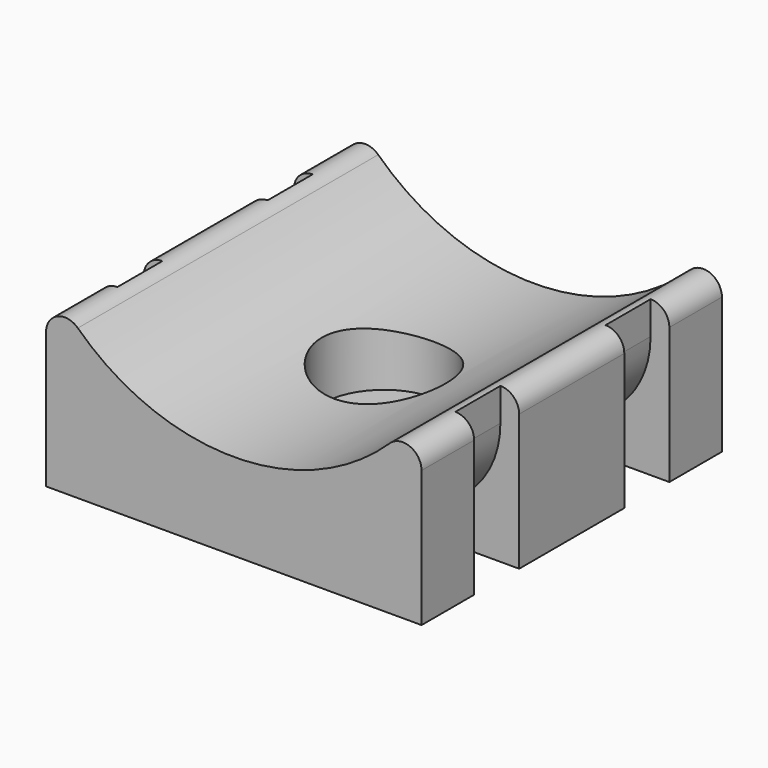
from build123d import *

# Parameters (mm, degrees)
SKETCH_W        = 20
SKETCH_H        = 20
PAD_DEPTH       = 10
SKETCH001_R     = 1.7
POCKET_DEPTH    = 10.001
SKETCH002_R     = 3.3
POCKET001_DEPTH = 8
POCKET002_DEPTH = 20.001
FILLET_R        = 1
SKETCH004_W     = 20
SKETCH004_H     = 3
POCKET003_DEPTH = 1.5
SKETCH005_W     = 3
SKETCH005_H     = 8
POCKET004_DEPTH = 1
SKETCH006_W     = 3
SKETCH006_H     = 8
POCKET005_DEPTH = 1
FILLET001_R     = 5


with BuildPart() as part:
    # Sketch → Pad (new body)
    with BuildSketch(Plane.XY):
        Rectangle(SKETCH_W, SKETCH_H)
    extrude(amount=PAD_DEPTH)

    # Sketch001 → Pocket (cut, through all)
    with BuildSketch(Plane.XY.offset(10)):
        Circle(SKETCH001_R)
    extrude(amount=-POCKET_DEPTH, mode=Mode.SUBTRACT)

    # Sketch002 → Pocket001 (cut)
    with BuildSketch(Plane.XY.offset(10)):
        Circle(SKETCH002_R)
    extrude(amount=-POCKET001_DEPTH, mode=Mode.SUBTRACT)

    # Sketch003 → Pocket002 (cut, through all)
    with BuildSketch(Plane(origin=(0, 10, 0), x_dir=(-1, 0, 0), z_dir=(0, 1, 0))):
        with BuildLine():
            ThreePointArc((-10, 10), (0, 4.63325), (10, 10))
            Line((-10, 10), (10, 10))
        make_face()
    extrude(amount=-POCKET002_DEPTH, mode=Mode.SUBTRACT)

    # Fillet
    fillet_edges = [part.edges().sort_by_distance(p)[0] for p in [
        (-10, 0, 10),
        (10, 0, 10),
    ]]
    fillet(fillet_edges, radius=FILLET_R)

    # Sketch004 → Pocket003 (cut)
    with BuildSketch(Plane(origin=(0, 0, 0), x_dir=(1, 0, 0), z_dir=(0, 0, -1))):
        with Locations((0, 5)):
            Rectangle(SKETCH004_W, SKETCH004_H)
    pocket003 = extrude(amount=-POCKET003_DEPTH, mode=Mode.SUBTRACT)

    # Mirrored: Pocket003 across Sketch004 H_Axis
    add(pocket003.mirror(Plane(origin=(0, 0, 0), x_dir=(0, 0, -1), z_dir=(0, -1, 0))), mode=Mode.SUBTRACT)

    # Sketch005 → Pocket004 (cut)
    with BuildSketch(Plane(origin=(-10, 0, 0), x_dir=(0, -1, 0), z_dir=(-1, 0, 0))):
        with Locations((-5, 5.5)):
            Rectangle(SKETCH005_W, SKETCH005_H)
    pocket004 = extrude(amount=-POCKET004_DEPTH, mode=Mode.SUBTRACT)

    # Mirrored001: Pocket004 across Sketch005 V_Axis
    add(pocket004.mirror(Plane(origin=(-10, 0, 0), x_dir=(-1, 0, 0), z_dir=(0, -1, 0))), mode=Mode.SUBTRACT)

    # Sketch006 → Pocket005 (cut)
    with BuildSketch(Plane.YZ.offset(10)):
        with Locations((-5, 5.5)):
            Rectangle(SKETCH006_W, SKETCH006_H)
    pocket005 = extrude(amount=-POCKET005_DEPTH, mode=Mode.SUBTRACT)

    # Mirrored002: Pocket005 across Sketch006 V_Axis
    add(pocket005.mirror(Plane(origin=(10, 0, 0), x_dir=(1, 0, 0), z_dir=(0, 1, 0))), mode=Mode.SUBTRACT)

    # Fillet001
    fillet001_edges = [part.edges().sort_by_distance(p)[0] for p in [
        (9, 5, 1.5),
        (9, -5, 1.5),
        (-9, -5, 1.5),
        (-9, 5, 1.5),
    ]]
    fillet(fillet001_edges, radius=FILLET001_R)


solid = part.part
